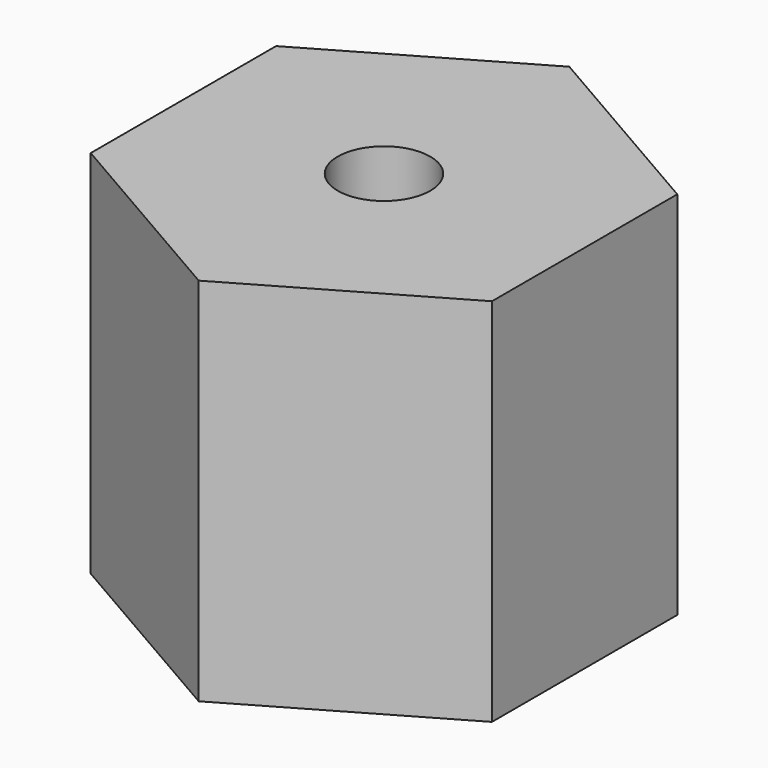
from build123d import *

# Parameters (mm, degrees)
SKETCH_R  = 1.5
PAD_DEPTH = 12


with BuildPart() as part:
    # Sketch → Pad (new body)
    with BuildSketch(Plane.XY):
        Polygon((6.5, -3.752777), (6.5, 3.752777), (0, 7.505553), (-6.5, 3.752777), (-6.5, -3.752777), (0, -7.505553), align=None)
        Circle(SKETCH_R, mode=Mode.SUBTRACT)
    extrude(amount=PAD_DEPTH)


solid = part.part
